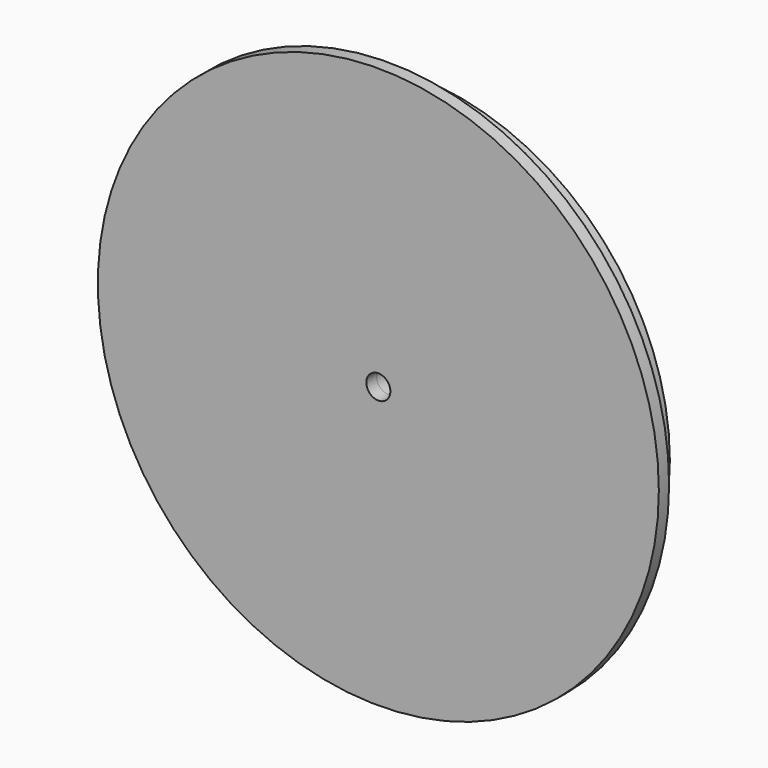
from build123d import *

# Parameters (mm, degrees)
F0_R     = 101.6
F0_R_2   = 4.7625
F1_DEPTH = 12.7
F1_TAPER = 1.5
F0_R_3   = 111.125
F2_DEPTH = 5.08


with BuildPart() as f1:
    # F0 (on Front) → F1 (new body)
    with BuildSketch(Plane.XZ):
        Circle(F0_R)
        Circle(F0_R_2, mode=Mode.SUBTRACT)
    extrude(amount=-F1_DEPTH, taper=F1_TAPER)

    # F0 (on Front) → F2 (join)
    with BuildSketch(Plane.XZ):
        Circle(F0_R_3)
        Circle(F0_R, mode=Mode.SUBTRACT)
        Circle(F0_R)
        Circle(F0_R_2, mode=Mode.SUBTRACT)
    extrude(amount=F2_DEPTH)


solid = f1.part
